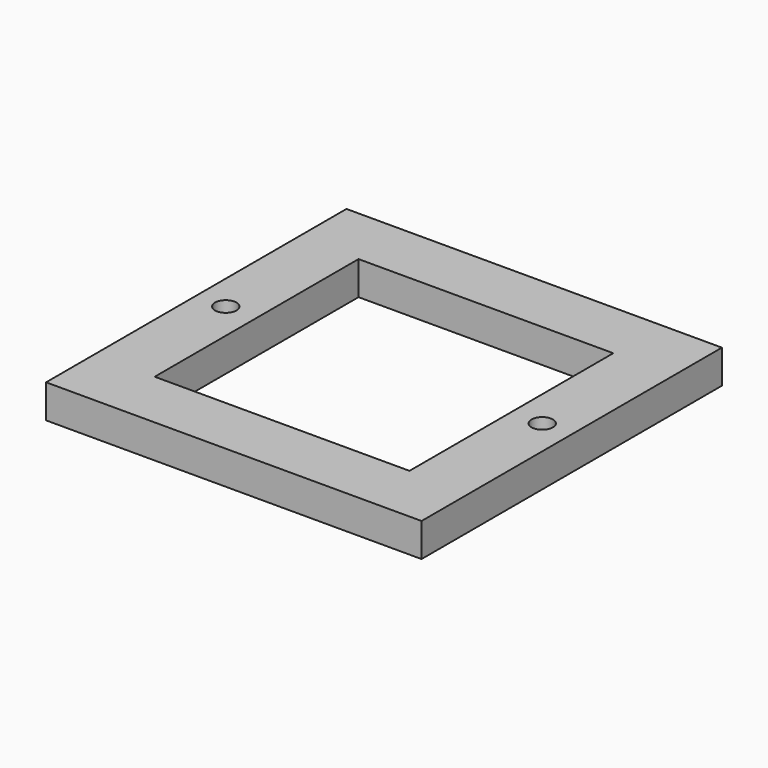
from build123d import *

# Parameters (mm, degrees)
F0_W     = 35.56
F0_H     = 35.56
F0_R     = 1.016
F0_W_2   = 24.13
F0_H_2   = 24.13
F1_DEPTH = 3.175


with BuildPart() as f1:
    # F0 (on Top) → F1 (new body)
    with BuildSketch(Plane.XY):
        Rectangle(F0_W, F0_H)
        with Locations((-14.986, 0)):
            Circle(F0_R, mode=Mode.SUBTRACT)
        Rectangle(F0_W_2, F0_H_2, mode=Mode.SUBTRACT)
        with Locations((14.986, 0)):
            Circle(F0_R, mode=Mode.SUBTRACT)
    extrude(amount=F1_DEPTH)


solid = f1.part
